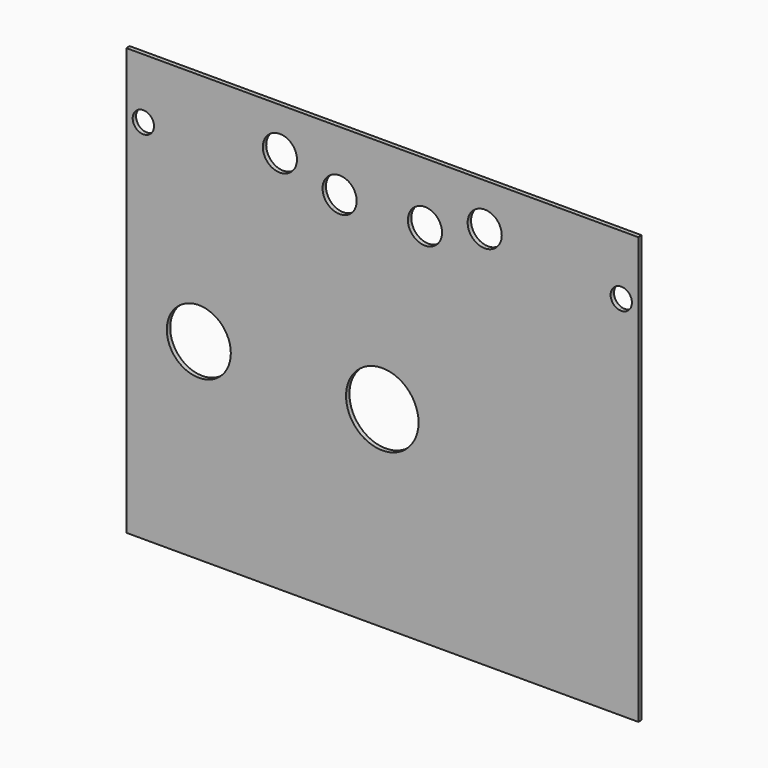
from build123d import *

# Parameters (mm, degrees)
F0_W     = 600
F0_H     = 500
F0_R     = 42.5
F1_DEPTH = 5


with BuildPart() as f1:
    # F0 (on Front) → F1 (new body)
    with BuildSketch(Plane.XZ):
        with Locations((-240.587708, 259.897342)):
            Rectangle(F0_W, F0_H)
        with BuildLine():
            ThreePointArc((-418.087708, 234.897342), (-481.732182, 208.013955), (-456.632586, 272.382782))
            ThreePointArc((-456.632586, 272.382782), (-429.443234, 261.780728), (-418.087708, 234.897342))
        make_face(mode=Mode.SUBTRACT)
        with Locations((-240.587708, 234.897342)):
            Circle(F0_R, mode=Mode.SUBTRACT)
        with BuildLine():
            ThreePointArc((-526.886874, 450.694124), (-522.637445, 452.22814), (-518.12026, 452.15139))
            ThreePointArc((-518.12026, 452.15139), (-516.144254, 451.580908), (-514.288543, 450.694124))
            ThreePointArc((-514.288543, 450.694124), (-509.748207, 446.12271), (-508.087708, 439.897342))
            ThreePointArc((-508.087708, 439.897342), (-510.868779, 432.036526), (-517.974496, 427.673548))
            ThreePointArc((-517.974496, 427.673548), (-532.244607, 435.384393), (-526.886874, 450.694124))
        make_face(mode=Mode.SUBTRACT)
        with BuildLine():
            ThreePointArc((-270.587708, 439.897342), (-280.235755, 422.784859), (-299.871415, 422.18258))
            ThreePointArc((-299.871415, 422.18258), (-300.939661, 457.009825), (-270.587708, 439.897342))
        make_face(mode=Mode.SUBTRACT)
        with BuildLine():
            ThreePointArc((-371.770186, 476.479024), (-351.197542, 477.555903), (-340.587708, 459.897342))
            ThreePointArc((-340.587708, 459.897342), (-369.977874, 442.238781), (-371.770186, 476.479024))
        make_face(mode=Mode.SUBTRACT)
        with BuildLine():
            ThreePointArc((-170.587708, 439.897342), (-173.475225, 429.545389), (-181.304001, 422.18258))
            ThreePointArc((-181.304001, 422.18258), (-207.700191, 450.249295), (-170.587708, 439.897342))
        make_face(mode=Mode.SUBTRACT)
        with BuildLine():
            ThreePointArc((-100.587708, 459.897342), (-138.246269, 450.507175), (-109.405231, 476.479024))
            ThreePointArc((-109.405231, 476.479024), (-102.929147, 469.287508), (-100.587708, 459.897342))
        make_face(mode=Mode.SUBTRACT)
        with BuildLine():
            ThreePointArc((51.912292, 439.897342), (47.273108, 430.178413), (36.79908, 427.673548))
            ThreePointArc((36.79908, 427.673548), (27.069507, 437.921069), (33.113126, 450.694124))
            ThreePointArc((33.113126, 450.694124), (34.968838, 451.580908), (36.944844, 452.15139))
            ThreePointArc((36.944844, 452.15139), (41.462029, 452.22814), (45.711457, 450.694124))
            ThreePointArc((45.711457, 450.694124), (50.251793, 446.12271), (51.912292, 439.897342))
        make_face(mode=Mode.SUBTRACT)
    extrude(amount=F1_DEPTH)


solid = f1.part
